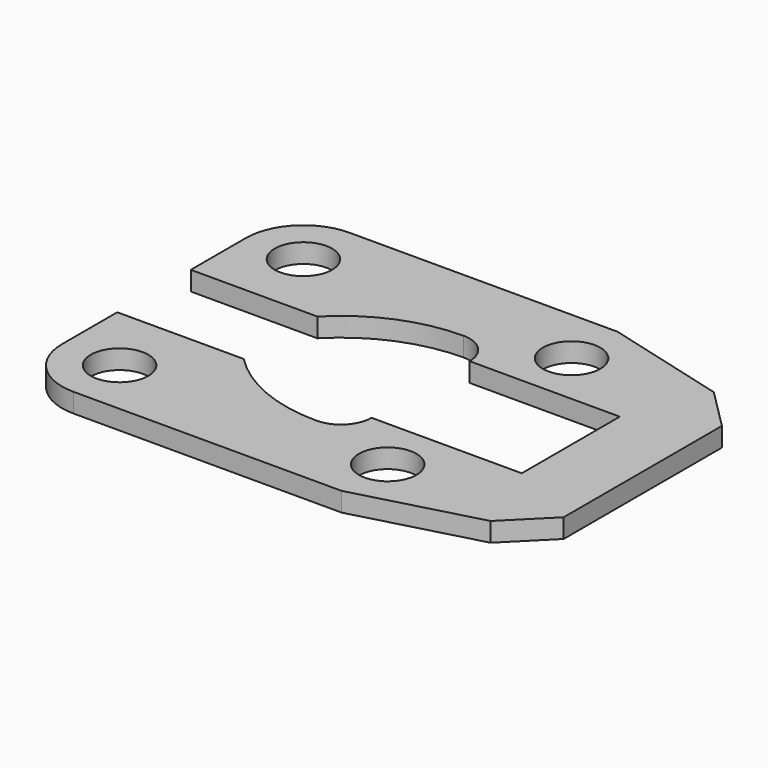
from build123d import *

# Parameters (mm, degrees)
F0_R     = 9.525
F1_DEPTH = 6.35


with BuildPart() as f1:
    # F0 (on Top) → F1 (new body)
    with BuildSketch(Plane.XY):
        with BuildLine():
            Line((34.570389, 57.15), (-54.329611, 57.15))
            ThreePointArc((-54.329611, 57.15), (-67.799996, 51.570384), (-73.379611, 38.1))
            Line((-73.379611, 38.1), (-73.379611, 15.24))
            Line((-73.379611, 15.24), (-31.425689, 15.24))
            ThreePointArc((-31.425689, 15.24), (-14.821988, 26.515286), (4.852767, 30.48))
            ThreePointArc((4.852767, 30.48), (12.036972, 27.504205), (15.012767, 20.32))
            Line((15.012767, 20.32), (64.796767, 20.32))
            Line((64.796767, 20.32), (64.796767, 0))
            Line((64.796767, 0), (64.796767, -20.32))
            Line((64.796767, -20.32), (15.012767, -20.32))
            ThreePointArc((15.012767, -20.32), (12.036972, -27.504205), (4.852767, -30.48))
            ThreePointArc((4.852767, -30.48), (-14.821988, -26.515286), (-31.425689, -15.24))
            Line((-31.425689, -15.24), (-73.379611, -15.24))
            Line((-73.379611, -15.24), (-73.379611, -38.1))
            ThreePointArc((-73.379611, -38.1), (-67.799996, -51.570384), (-54.329611, -57.15))
            Line((-54.329611, -57.15), (34.570389, -57.15))
            Line((34.570389, -57.15), (75.210389, -46.260545))
            Line((75.210389, -46.260545), (88.672767, -32.798166))
            Line((88.672767, -32.798166), (88.672767, 0))
            Line((88.672767, 0), (88.672767, 32.798166))
            Line((88.672767, 32.798166), (75.210389, 46.260545))
            Line((75.210389, 46.260545), (34.570389, 57.15))
        make_face()
        with Locations((-54.329611, -38.1)):
            Circle(F0_R, mode=Mode.SUBTRACT)
        with Locations((34.570389, -38.1)):
            Circle(F0_R, mode=Mode.SUBTRACT)
        with Locations((-54.329611, 38.1)):
            Circle(F0_R, mode=Mode.SUBTRACT)
        with Locations((34.570389, 38.1)):
            Circle(F0_R, mode=Mode.SUBTRACT)
    extrude(amount=F1_DEPTH)


solid = f1.part
